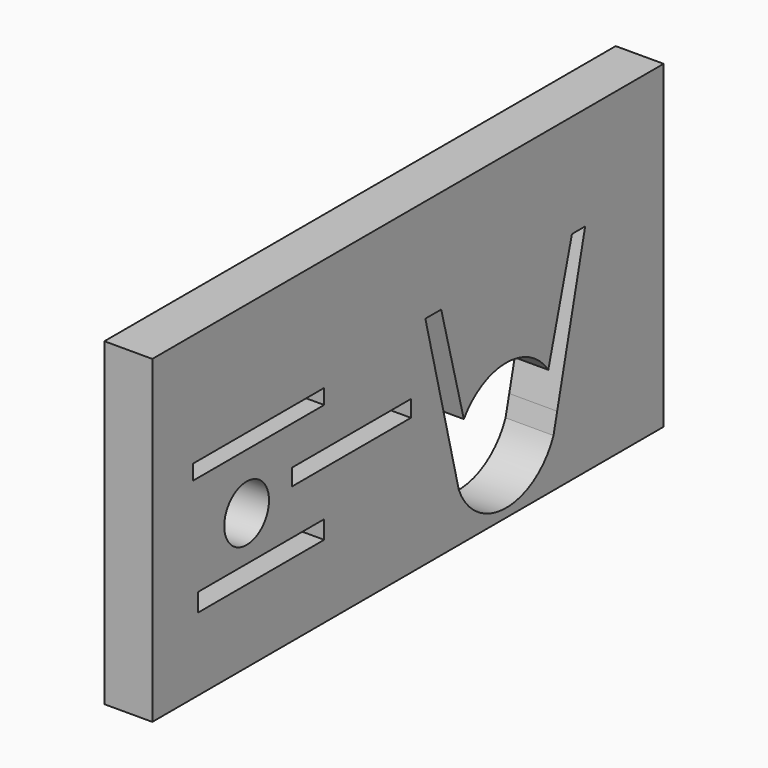
from build123d import *

# Parameters (mm, degrees)
F0_W     = 80
F0_H     = 40
F1_DEPTH = 6
F2_R     = 3.5
F3_DEPTH = 25
F5_DEPTH = 25
F6_W     = 20.5047205091
F6_H     = 1.8820744008
F6_W_2   = 18.622642383
F6_H_2   = 2.0801890641
F6_W_3   = 19.7122655809
F6_H_3   = 2.2783023305
F7_DEPTH = 25


with BuildPart() as f1:
    # F0 (on Right) → F1 (new body)
    with BuildSketch(Plane.YZ):
        with Locations((-26.8443413079, 17.3577393824)):
            Rectangle(F0_W, F0_H)
    extrude(amount=F1_DEPTH)

    # F2 (on face) → F3 (cut)
    with BuildSketch(Plane.YZ.offset(6)):
        with Locations((-52.0895607769, 14.3577393824)):
            Circle(F2_R)
    extrude(amount=-F3_DEPTH, mode=Mode.SUBTRACT)

    # F4 (on face) → F5 (cut)
    with BuildSketch(Plane.YZ.offset(6)):
        with BuildLine():
            ThreePointArc((-3.5001474581, 5.8439973669), (-3.4839255473, 6.137753605), (-3.478515805, 6.4319076676))
            ThreePointArc((-3.478515805, 6.4319076676), (-3.8394647971, 8.807807434), (-4.8897407299, 10.9693125439))
            ThreePointArc((-4.8897407299, 10.9693125439), (-7.8217234118, 13.5472340406), (-11.6246055812, 14.4305736675))
            ThreePointArc((-11.6246055812, 14.4305736675), (-15.2948749769, 13.4629390764), (-18.1060345681, 10.9125320711))
            ThreePointArc((-18.1060345681, 10.9125320711), (-19.2350505337, 8.3905217189), (-19.4387102983, 5.6348483044))
            Line((-19.4387102983, 5.6348483044), (-18.8812702578, 3.3988849985))
            Line((-18.8812702578, 3.3988849985), (-4.0757613522, 3.3988849985))
            Line((-4.0757613522, 3.3988849985), (-3.5001474581, 5.8439973669))
        make_face()
        with BuildLine():
            ThreePointArc((-18.8812702578, 3.3988849985), (-11.478515805, -1.5680923324), (-4.0757613522, 3.3988849985))
            Line((-4.0757613522, 3.3988849985), (-18.8812702578, 3.3988849985))
        make_face()
        with BuildLine():
            ThreePointArc((-19.4387102983, 5.6348483044), (-19.2350505337, 8.3905217189), (-18.1060345681, 10.9125320711))
            Line((-18.1060345681, 10.9125320711), (-21.6475948691, 24.4305736675))
            Line((-21.6475948691, 24.4305736675), (-24.1246055812, 24.4305736675))
            Line((-24.1246055812, 24.4305736675), (-19.4387102983, 5.6348483044))
        make_face()
        with BuildLine():
            ThreePointArc((-4.8897407299, 10.9693125439), (-3.8394647971, 8.807807434), (-3.478515805, 6.4319076676))
            ThreePointArc((-3.478515805, 6.4319076676), (-3.4839255473, 6.137753605), (-3.5001474581, 5.8439973669))
            Line((-3.5001474581, 5.8439973669), (0.8753944188, 24.4305736675))
            Line((0.8753944188, 24.4305736675), (-1.1863555992, 24.4305736675))
            Line((-1.1863555992, 24.4305736675), (-4.8897407299, 10.9693125439))
        make_face()
    extrude(amount=-F5_DEPTH, mode=Mode.SUBTRACT)

    # F6 (on face) → F7 (cut)
    with BuildSketch(Plane.YZ.offset(6)):
        with Locations((-50.2029955387, 22.2922516987)):
            Rectangle(F6_W, F6_H)
        with Locations((-35.6912026182, 15.4573461041)):
            Rectangle(F6_W_2, F6_H_2)
        with Locations((-49.8067680746, 7.6318744104)):
            Rectangle(F6_W_3, F6_H_3)
    extrude(amount=-F7_DEPTH, mode=Mode.SUBTRACT)


solid = f1.part
